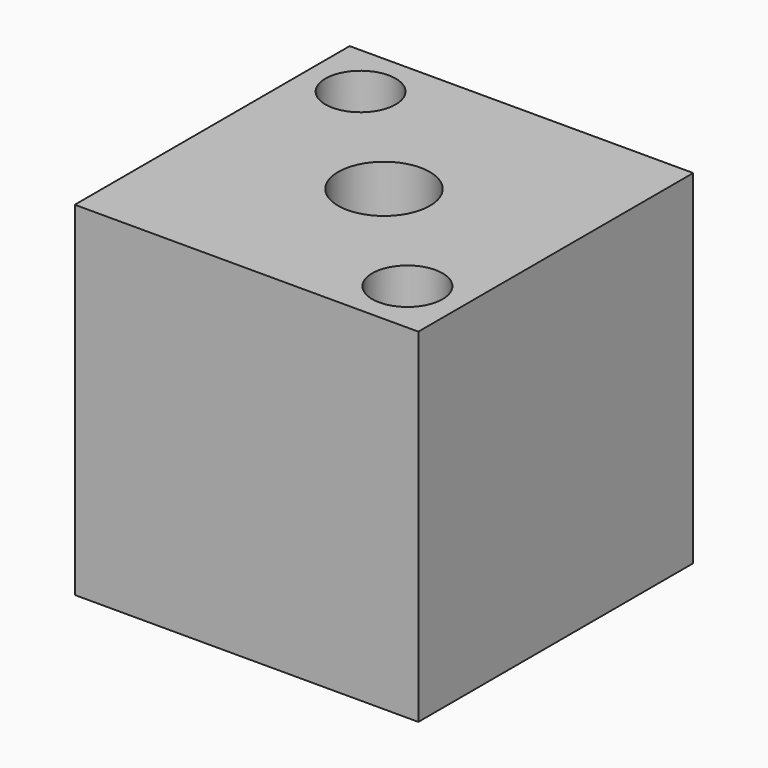
from build123d import *

# Parameters (mm, degrees)
F0_W     = 44
F0_H     = 44
F0_R     = 4.5
F0_R_2   = 5.875
F1_DEPTH = 44
F0_R_3   = 4
F2_DEPTH = 22


with BuildPart() as f1:
    # F0 (on Top) → F1 (new body)
    with BuildSketch(Plane.XY):
        with Locations((44, 42)):
            Rectangle(F0_W, F0_H)
        with Locations((59, 27)):
            Circle(F0_R, mode=Mode.SUBTRACT)
        with Locations((29, 57)):
            Circle(F0_R, mode=Mode.SUBTRACT)
        with Locations((44, 42)):
            Circle(F0_R_2, mode=Mode.SUBTRACT)
    extrude(amount=F1_DEPTH)

    # F0 (on Top) → F2 (join)
    with BuildSketch(Plane.XY):
        with Locations((29, 57)):
            Circle(F0_R)
        with Locations((29, 57)):
            Circle(F0_R_3, mode=Mode.SUBTRACT)
        with Locations((59, 27)):
            Circle(F0_R)
        with Locations((59, 27)):
            Circle(F0_R_3, mode=Mode.SUBTRACT)
    extrude(amount=F2_DEPTH)


solid = f1.part
